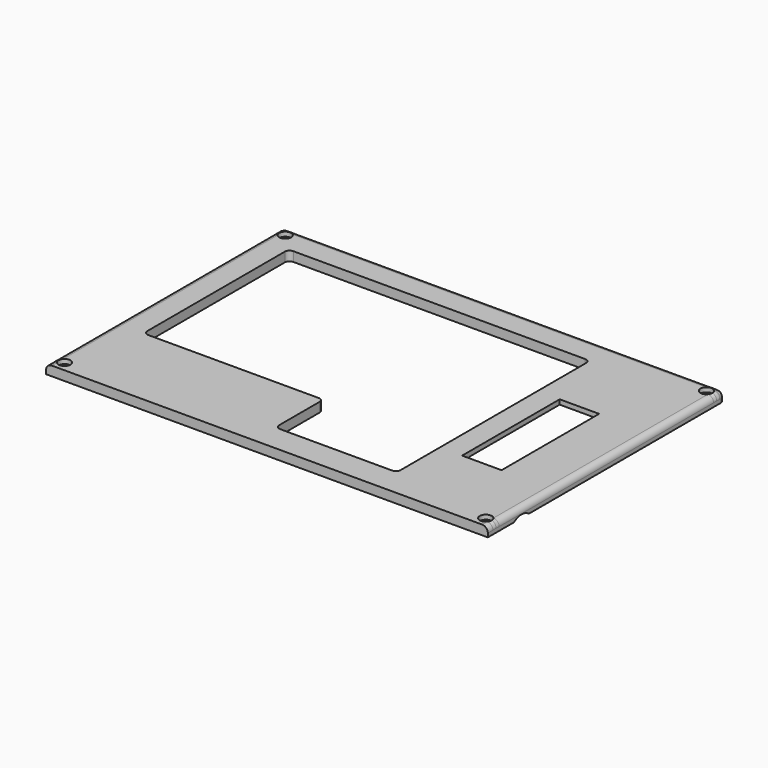
from build123d import *

# Parameters (mm, degrees)
SKETCH002_W     = 140
SKETCH002_H     = 93.9
PAD001_DEPTH    = 3
SKETCH003_W     = 12.5
SKETCH003_H     = 38.6472
POCKET001_DEPTH = 3
SKETCH008_W     = 24
SKETCH008_H     = 60
POCKET004_DEPTH = 1.5
SKETCH011_R     = 1.05
POCKET006_DEPTH = 3.001
SKETCH012_R     = 1.9
POCKET007_DEPTH = 1.4
CHAMFER_1_ANGLE = 45
CHAMFER_1_SIZE  = 0.843
CHAMFER_2_ANGLE = 45
CHAMFER_2_SIZE  = 0.843
CHAMFER_3_ANGLE = 45
CHAMFER_3_SIZE  = 0.843
CHAMFER_4_ANGLE = 45
CHAMFER_4_SIZE  = 0.843
FILLET_R        = 1.5
SKETCH018_R     = 4.85
POCKET013_DEPTH = 10
FILLET001_R     = 1.8
POCKET015_DEPTH = 12


with BuildPart() as part:
    # Sketch002 (on XY_Plane154 of Origin309) → Pad001 (new body)
    with BuildSketch(Plane.XY):
        Rectangle(SKETCH002_W, SKETCH002_H)
    extrude(amount=PAD001_DEPTH)

    # Sketch003 (on Face6 of Pad001) → Pocket001 (cut)
    with BuildSketch(Plane.XY.offset(3)):
        Polygon((-61.3, 38.25), (-61.3, -19.25), (-4.3, -19.25), (-4.3, -38.25), (34.2, -38.25), (34.2, 38.25), align=None)
        with Locations((47.48708, -1.86296)):
            Rectangle(SKETCH003_W, SKETCH003_H)
    extrude(amount=-POCKET001_DEPTH, mode=Mode.SUBTRACT)

    # Sketch008 (on Face4 of Pocket001) → Pocket004 (cut)
    with BuildSketch(Plane(origin=(0, 0, 0), x_dir=(1, 0, 0), z_dir=(0, 0, -1))):
        with Locations((48, -11.55)):
            Rectangle(SKETCH008_W, SKETCH008_H)
    extrude(amount=-POCKET004_DEPTH, mode=Mode.SUBTRACT)

    # Sketch011 (on Face5 of Pocket004) → Pocket006 (cut, through all)
    with BuildSketch(Plane.XY.offset(3)):
        with Locations((66.75, 43.7)):
            Circle(SKETCH011_R)
        with Locations((66.75, -43.7)):
            Circle(SKETCH011_R)
        with Locations((-66.75, -43.7)):
            Circle(SKETCH011_R)
        with Locations((-66.75, 43.7)):
            Circle(SKETCH011_R)
    extrude(amount=-POCKET006_DEPTH, mode=Mode.SUBTRACT)

    # Sketch012 (on Face5 of Pocket006) → Pocket007 (cut)
    with BuildSketch(Plane.XY.offset(3)):
        with Locations((-66.75, 43.7)):
            Circle(SKETCH012_R)
        with Locations((66.75, 43.7)):
            Circle(SKETCH012_R)
        with Locations((-66.75, -43.7)):
            Circle(SKETCH012_R)
        with Locations((66.75, -43.7)):
            Circle(SKETCH012_R)
    extrude(amount=-POCKET007_DEPTH, mode=Mode.SUBTRACT)

    # Chamfer 1
    chamfer_1_edges = [part.edges().sort_by_distance(p)[0] for p in [
        (-67.8, 43.7, 1.6),
    ]]
    chamfer_1_side = part.faces().sort_by_distance((-67.8, 43.7, 0.8))[0]
    chamfer(chamfer_1_edges, length=CHAMFER_1_SIZE, angle=CHAMFER_1_ANGLE, reference=chamfer_1_side)

    # Chamfer 2
    chamfer_2_edges = [part.edges().sort_by_distance(p)[0] for p in [
        (65.7, -43.7, 1.6),
    ]]
    chamfer_2_side = part.faces().sort_by_distance((65.7, -43.7, 0.8))[0]
    chamfer(chamfer_2_edges, length=CHAMFER_2_SIZE, angle=CHAMFER_2_ANGLE, reference=chamfer_2_side)

    # Chamfer 3
    chamfer_3_edges = [part.edges().sort_by_distance(p)[0] for p in [
        (-67.8, -43.7, 1.6),
    ]]
    chamfer_3_side = part.faces().sort_by_distance((-67.8, -43.7, 0.8))[0]
    chamfer(chamfer_3_edges, length=CHAMFER_3_SIZE, angle=CHAMFER_3_ANGLE, reference=chamfer_3_side)

    # Chamfer 4
    chamfer_4_edges = [part.edges().sort_by_distance(p)[0] for p in [
        (65.7, 43.7, 1.6),
    ]]
    chamfer_4_side = part.faces().sort_by_distance((65.7, 43.7, 0.8))[0]
    chamfer(chamfer_4_edges, length=CHAMFER_4_SIZE, angle=CHAMFER_4_ANGLE, reference=chamfer_4_side)

    # Fillet
    fillet_edges = [part.edges().sort_by_distance(p)[0] for p in [
        (-4.3, -38.25, 1.5),
        (34.2, -38.25, 1.5),
        (34.2, 38.25, 1.5),
        (-61.3, 38.25, 1.5),
        (-61.3, -19.25, 1.5),
        (-4.3, -19.25, 1.5),
    ]]
    fillet(fillet_edges, radius=FILLET_R)

    # Sketch018 (on Face16 of Fillet) → Pocket013 (cut)
    with BuildSketch(Plane.YZ.offset(70)):
        with Locations((-33.64, -3.85)):
            Circle(SKETCH018_R)
    extrude(amount=-POCKET013_DEPTH, mode=Mode.SUBTRACT)

    # Fillet001
    fillet001_edges = [part.edges().sort_by_distance(p)[0] for p in [
        (70, 0, 3),
        (0, 46.95, 3),
        (70, 46.95, 1.5),
        (-70, 46.95, 1.5),
        (-70, 0, 3),
    ]]
    fillet(fillet001_edges, radius=FILLET001_R)

    # Sketch021 (on Face5 of Fillet001) → Pocket015 (cut)
    with BuildSketch(Plane(origin=(0, 46.95, 0), x_dir=(-1, 0, 0), z_dir=(0, 1, 0))):
        with BuildLine():
            Line((-40.5, -3.1), (-40.5, -0.1))
            ThreePointArc((-40.5, -0.1), (-41.232233, 1.667767), (-43, 2.4))
            Line((-43, 2.4), (-52, 2.4))
            ThreePointArc((-52, 2.4), (-53.767767, 1.667767), (-54.5, -0.1))
            Line((-54.5, -0.1), (-54.5, -3.1))
            ThreePointArc((-54.5, -3.1), (-53.767767, -4.867767), (-52, -5.6))
            Line((-52, -5.6), (-43, -5.6))
            ThreePointArc((-43, -5.6), (-41.232233, -4.867767), (-40.5, -3.1))
        make_face()
    extrude(amount=-POCKET015_DEPTH, mode=Mode.SUBTRACT)


with BuildPart() as part_1:
    # Body001 placement: moved
    add(part.part.moved(Location((0, 0, 10.5))))


solid = part_1.part
